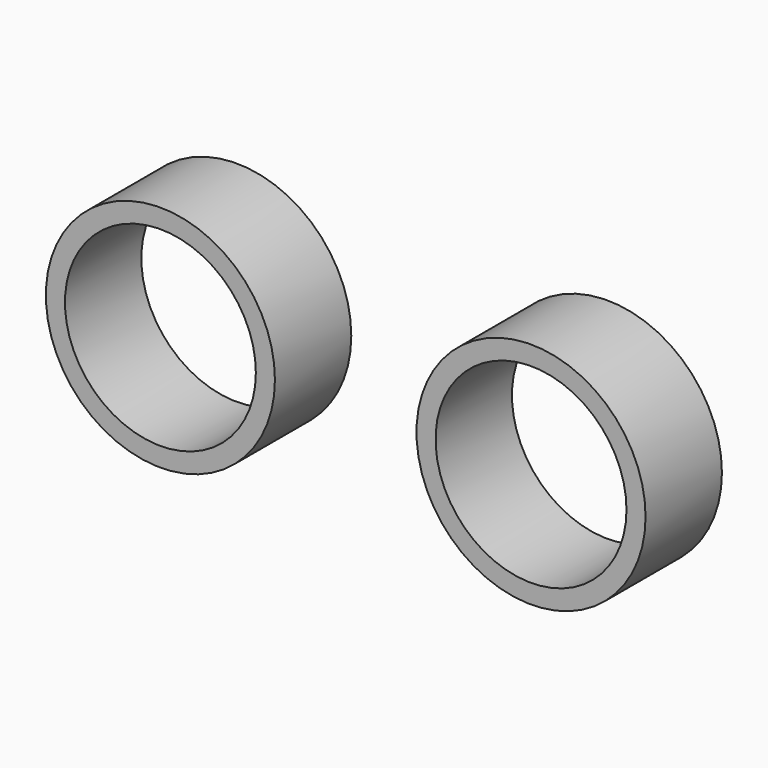
from build123d import *

# Parameters (mm, degrees)
F0_R     = 30
F0_R_2   = 25
F1_DEPTH = 25


with BuildPart() as f1:
    # F0 (on Front) → F1 (new body)
    with BuildSketch(Plane.XZ):
        with Locations((-48.396245, 0)):
            Circle(F0_R)
        with Locations((-48.396245, 0)):
            Circle(F0_R_2, mode=Mode.SUBTRACT)
        with Locations((48.686046, 0)):
            Circle(F0_R)
        with Locations((48.686046, 0)):
            Circle(F0_R_2, mode=Mode.SUBTRACT)
    extrude(amount=F1_DEPTH)


solid = f1.part
